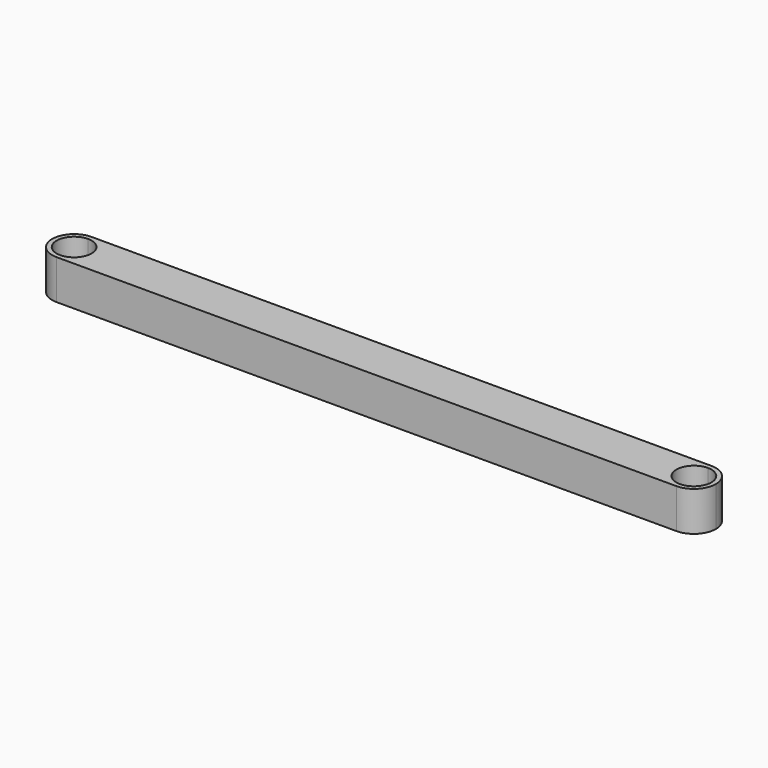
from build123d import *

# Parameters (mm, degrees)
F1_DEPTH = 5.6642


with BuildPart() as f1:
    # F0 (on Top) → F1 (new body)
    with BuildSketch(Plane.XY):
        with BuildLine():
            Line((-44.324736, 2.5019), (-44.324736, 3.135164))
            ThreePointArc((-44.324736, 3.135164), (-47.4599, 0), (-44.324736, -3.135164))
            Line((-44.324736, -3.135164), (-44.324736, -2.5019))
            ThreePointArc((-44.324736, -2.5019), (-46.826636, 0), (-44.324736, 2.5019))
        make_face()
        with BuildLine():
            ThreePointArc((-41.189572, 0), (-42.10784, 2.216896), (-44.324736, 3.135164))
            Line((-44.324736, 3.135164), (-44.324736, 2.5019))
            ThreePointArc((-44.324736, 2.5019), (-42.555625, 1.76911), (-41.822836, 0))
            ThreePointArc((-41.822836, 0), (-42.555625, -1.76911), (-44.324736, -2.5019))
            Line((-44.324736, -2.5019), (-44.324736, -3.135164))
            ThreePointArc((-44.324736, -3.135164), (-42.10784, -2.216896), (-41.189572, 0))
        make_face()
        with BuildLine():
            Line((44.324736, 3.135164), (-44.324736, 3.135164))
            ThreePointArc((-44.324736, 3.135164), (-42.10784, 2.216896), (-41.189572, 0))
            ThreePointArc((-41.189572, 0), (-42.10784, -2.216896), (-44.324736, -3.135164))
            Line((-44.324736, -3.135164), (44.324736, -3.135164))
            ThreePointArc((44.324736, -3.135164), (41.189572, 0), (44.324736, 3.135164))
        make_face()
        with BuildLine():
            ThreePointArc((47.4599, 0), (46.541632, 2.216896), (44.324736, 3.135164))
            Line((44.324736, 3.135164), (44.324736, 2.5019))
            ThreePointArc((44.324736, 2.5019), (46.093846, 1.76911), (46.826636, 0))
            ThreePointArc((46.826636, 0), (46.093846, -1.76911), (44.324736, -2.5019))
            Line((44.324736, -2.5019), (44.324736, -3.135164))
            ThreePointArc((44.324736, -3.135164), (46.541632, -2.216896), (47.4599, 0))
        make_face()
        with BuildLine():
            Line((44.324736, 2.5019), (44.324736, 3.135164))
            ThreePointArc((44.324736, 3.135164), (41.189572, 0), (44.324736, -3.135164))
            Line((44.324736, -3.135164), (44.324736, -2.5019))
            ThreePointArc((44.324736, -2.5019), (41.822836, 0), (44.324736, 2.5019))
        make_face()
    extrude(amount=F1_DEPTH)


solid = f1.part
